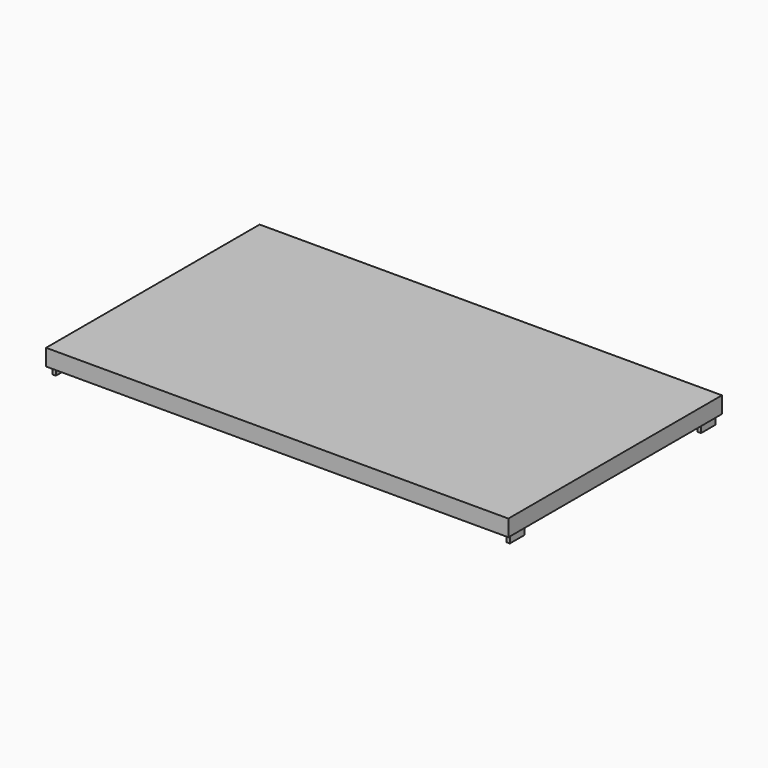
from build123d import *

# Parameters (mm, degrees)
F1_W     = 84
F1_H     = 48.5
F1_W_2   = 0.6
F1_H_2   = 3.3
F2_DEPTH = 3
F3_DEPTH = 1.5


with BuildPart() as f2:
    # F1 (on Top) → F2 (new body)
    with BuildSketch(Plane.XY):
        with Locations((-0.045325, 1.130905)):
            Rectangle(F1_W, F1_H)
        with Locations((-41.295325, -20.569095)):
            Rectangle(F1_W_2, F1_H_2, mode=Mode.SUBTRACT)
        with Locations((41.204675, -20.569095)):
            Rectangle(F1_W_2, F1_H_2, mode=Mode.SUBTRACT)
        with Locations((-41.295325, 22.830905)):
            Rectangle(F1_W_2, F1_H_2, mode=Mode.SUBTRACT)
        with Locations((41.204675, 22.830905)):
            Rectangle(F1_W_2, F1_H_2, mode=Mode.SUBTRACT)
        with Locations((41.204675, -20.569095)):
            Rectangle(F1_W_2, F1_H_2)
        with Locations((41.204675, 22.830905)):
            Rectangle(F1_W_2, F1_H_2)
        with Locations((-41.295325, -20.569095)):
            Rectangle(F1_W_2, F1_H_2)
        with Locations((-41.295325, 22.830905)):
            Rectangle(F1_W_2, F1_H_2)
    extrude(amount=F2_DEPTH)

    # F1 (on Top) → F3 (join)
    with BuildSketch(Plane.XY):
        with Locations((-41.295325, -20.569095)):
            Rectangle(F1_W_2, F1_H_2)
        with Locations((-41.295325, 22.830905)):
            Rectangle(F1_W_2, F1_H_2)
        with Locations((41.204675, -20.569095)):
            Rectangle(F1_W_2, F1_H_2)
        with Locations((41.204675, 22.830905)):
            Rectangle(F1_W_2, F1_H_2)
    extrude(amount=-F3_DEPTH)


solid = f2.part
